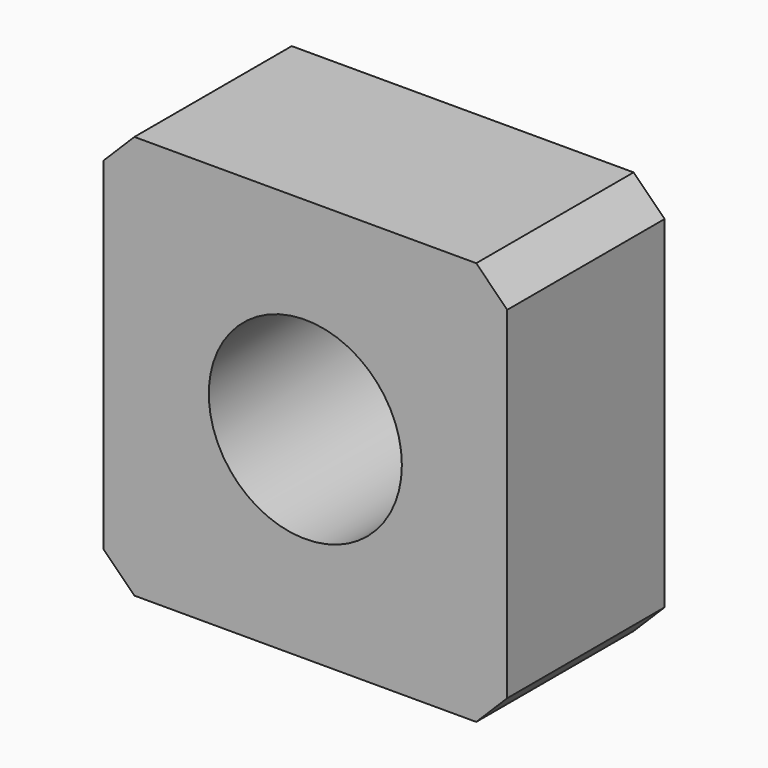
from build123d import *

# Parameters (mm, degrees)
F0_W     = 26.0732
F0_H     = 26.0732
F1_DEPTH = 12.7
F2_R     = 6.23275
F3_DEPTH = 12.701
F4_SIZE  = 2


with BuildPart() as f1:
    # F0 (on Front) → F1 (new body)
    with BuildSketch(Plane.XZ):
        Rectangle(F0_W, F0_H)
    extrude(amount=F1_DEPTH)

    # F2 (on face) → F3 (cut, through all)
    with BuildSketch(Plane.XZ.offset(12.7)):
        Circle(F2_R)
    extrude(amount=-F3_DEPTH, mode=Mode.SUBTRACT)

    # F4
    f4_edges = [f1.edges().sort_by_distance(p)[0] for p in [
        (13.0366, -6.35, -13.0366),
        (13.0366, -6.35, 13.0366),
        (-13.0366, -6.35, -13.0366),
        (-13.0366, -6.35, 13.0366),
    ]]
    chamfer(f4_edges, length=F4_SIZE)


solid = f1.part
